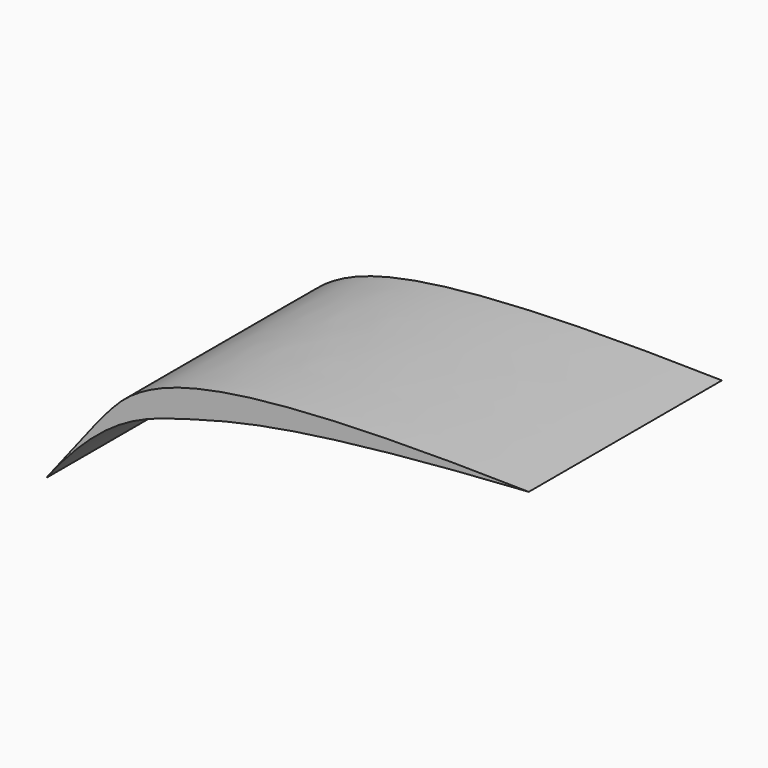
from build123d import *

# Parameters (mm, degrees)
F1_DEPTH = 25


with BuildPart() as f1:
    # F0 (on Front) → F1 (new body)
    with BuildSketch(Plane.XZ):
        with BuildLine():
            add(Edge.make_bspline(
                [(-21.6082849153, -7.5527009555), (-15.7351829112, 0), (-12.7385670289, 4.5542974999), (0, 8.0906739458), (28.3917150847, 7.4472990445)],
                knots=[0, 0, 0, 0, 0.3724579392, 1, 1, 1, 1], degree=3))
            add(Edge.make_bspline(
                [(-21.6082849153, -7.5527009555), (-15.7351829112, 0), (-6.0098896106, 2.9002657798), (4.6000322327, 5.8993245475), (28.3917150847, 7.4472990445)],
                knots=[0, 0, 0, 0, 0.4066116514, 1, 1, 1, 1], degree=3))
        make_face()
    extrude(amount=F1_DEPTH)


solid = f1.part
